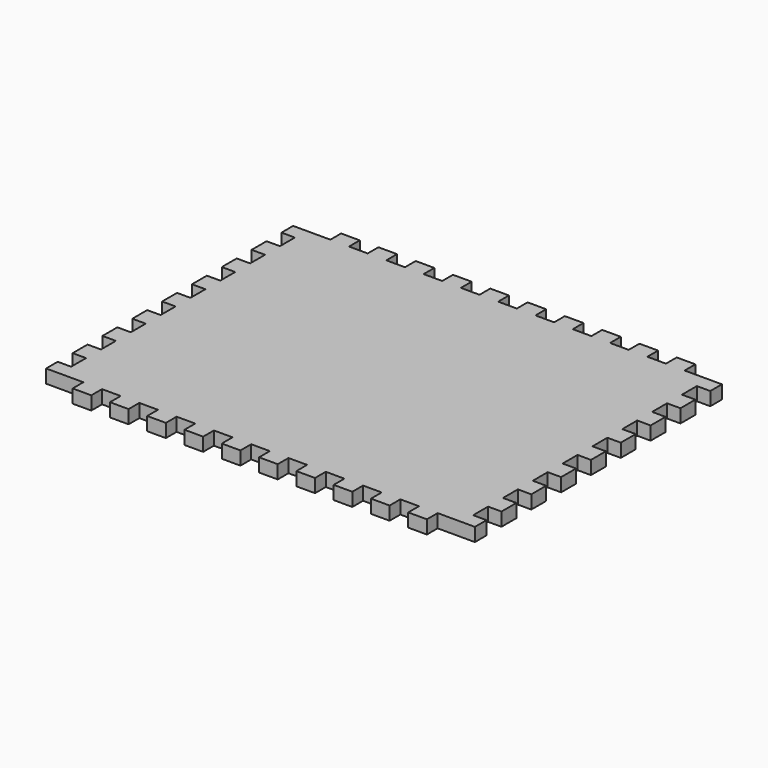
from build123d import *

# Parameters (mm, degrees)
F1_DEPTH = 9.144


with BuildPart() as f1:
    # F0 (on Top) → F1 (new body)
    with BuildSketch(Plane.XY):
        Polygon((25.4, -9.144), (0, -9.144), (0, -19.05), (9.144, -19.05), (9.144, -31.75), (0, -31.75), (0, -44.45), (9.144, -44.45), (9.144, -57.15), (0, -57.15), (0, -69.85), (9.144, -69.85), (9.144, -82.55), (0, -82.55), (0, -95.25), (9.144, -95.25), (9.144, -107.95), (0, -107.95), (0, -120.65), (9.144, -120.65), (9.144, -133.35), (0, -133.35), (0, -146.05), (9.144, -146.05), (9.144, -158.75), (0, -158.75), (0, -171.45), (9.144, -171.45), (9.144, -184.15), (0, -184.15), (0, -196.85), (9.144, -196.85), (9.144, -209.55), (0, -209.55), (0, -219.456), (25.4, -219.456), (25.4, -228.6), (38.1, -228.6), (38.1, -219.456), (50.8, -219.456), (50.8, -228.6), (63.5, -228.6), (63.5, -219.456), (76.2, -219.456), (76.2, -228.6), (88.9, -228.6), (88.9, -219.456), (101.6, -219.456), (101.6, -228.6), (114.3, -228.6), (114.3, -219.456), (127, -219.456), (127, -228.6), (139.7, -228.6), (139.7, -219.456), (152.4, -219.456), (152.4, -228.6), (165.1, -228.6), (165.1, -219.456), (177.8, -219.456), (177.8, -228.6), (190.5, -228.6), (190.5, -219.456), (203.2, -219.456), (203.2, -228.6), (215.9, -228.6), (215.9, -219.456), (228.6, -219.456), (228.6, -228.6), (241.3, -228.6), (241.3, -219.456), (254, -219.456), (254, -228.6), (266.7, -228.6), (266.7, -219.456), (292.1, -219.456), (292.1, -209.55), (282.956, -209.55), (282.956, -196.85), (292.1, -196.85), (292.1, -184.15), (282.956, -184.15), (282.956, -171.45), (292.1, -171.45), (292.1, -158.75), (282.956, -158.75), (282.956, -146.05), (292.1, -146.05), (292.1, -133.35), (282.956, -133.35), (282.956, -120.65), (292.1, -120.65), (292.1, -107.95), (282.956, -107.95), (282.956, -95.25), (292.1, -95.25), (292.1, -82.55), (282.956, -82.55), (282.956, -69.85), (292.1, -69.85), (292.1, -57.15), (282.956, -57.15), (282.956, -44.45), (292.1, -44.45), (292.1, -31.75), (282.956, -31.75), (282.956, -19.05), (292.1, -19.05), (292.1, -9.144), (266.7, -9.144), (266.7, 0), (254, 0), (254, -9.144), (241.3, -9.144), (241.3, 0), (228.6, 0), (228.6, -9.144), (215.9, -9.144), (215.9, 0), (203.2, 0), (203.2, -9.144), (190.5, -9.144), (190.5, 0), (177.8, 0), (177.8, -9.144), (165.1, -9.144), (165.1, 0), (152.4, 0), (152.4, -9.144), (139.7, -9.144), (139.7, 0), (127, 0), (127, -9.144), (114.3, -9.144), (114.3, 0), (101.6, 0), (101.6, -9.144), (88.9, -9.144), (88.9, 0), (76.2, 0), (76.2, -9.144), (63.5, -9.144), (63.5, 0), (50.8, 0), (50.8, -9.144), (38.1, -9.144), (38.1, 0), (25.4, 0), align=None)
    extrude(amount=F1_DEPTH)


solid = f1.part
